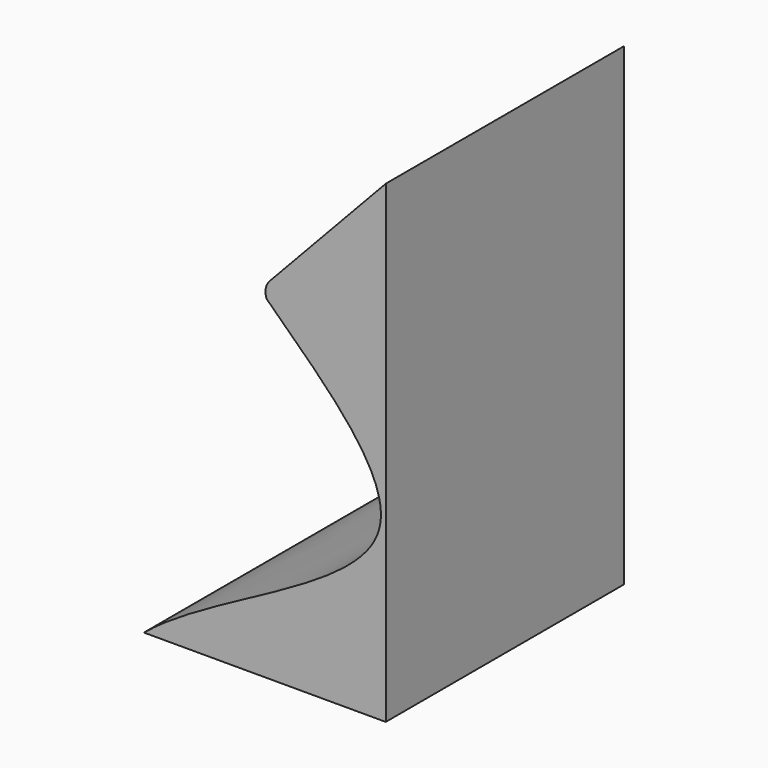
from build123d import *

# Parameters (mm, degrees)
F1_DEPTH = 1.5875


with BuildPart() as f1:
    # F0 (on Front) → F1 (new body)
    with BuildSketch(Plane.XZ):
        with BuildLine():
            Line((-1.288804342, 0), (0, 0))
            Line((0, 0), (0, 1.778))
            Line((0, 1.778), (0, 2.5250844192))
            Line((0, 2.5250844192), (-0.6177662367, 1.867863305))
            ThreePointArc((-0.6177662367, 1.867863305), (-0.6394247671, 1.8254327477), (-0.635, 1.778))
            add(Edge.make_bspline(
                [(-0.635, 1.778), (-0.3515690188, 1.5013684956), (0.5168877601, 0.7623105723), (-0.9078952262, 0.3147711822), (-1.288804342, 0)],
                knots=[0, 0, 0, 0, 0.4551462822, 1, 1, 1, 1], degree=3))
        make_face()
    extrude(amount=F1_DEPTH)


solid = f1.part
